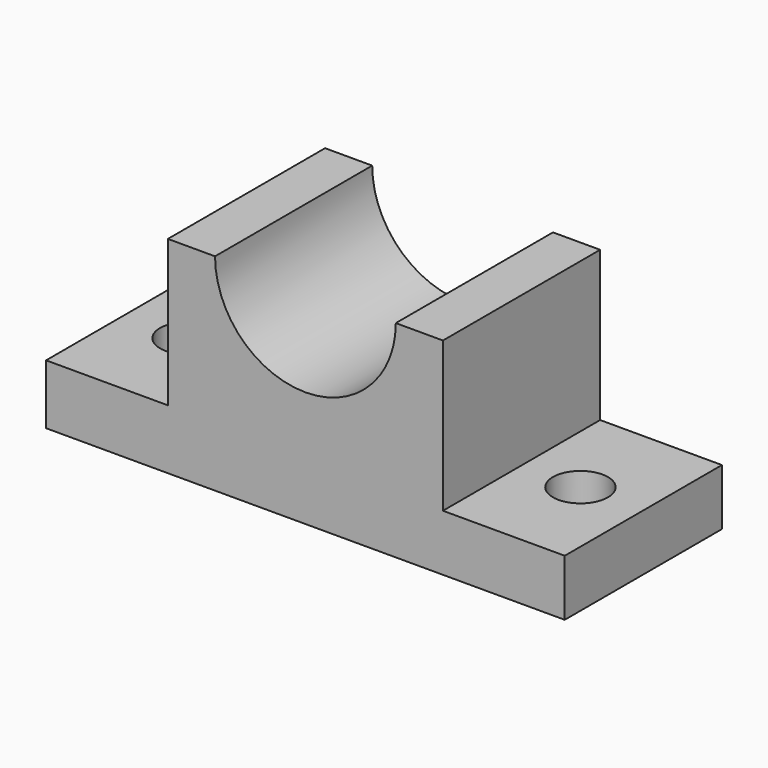
from build123d import *

# Parameters (mm, degrees)
F1_DEPTH = 50
F2_R     = 7
F3_DEPTH = 25


with BuildPart() as f1:
    # F0 (on Front) → F1 (new body)
    with BuildSketch(Plane.XZ):
        with BuildLine():
            Line((-66, 0), (0, 0))
            Line((0, 0), (66, 0))
            Line((66, 0), (66, 14.357146))
            Line((66, 14.357146), (35, 14.357146))
            Line((35, 14.357146), (35, 52.500002))
            Line((35, 52.500002), (23, 52.500002))
            ThreePointArc((23, 52.500002), (0, 29.500002), (-23, 52.500002))
            Line((-23, 52.500002), (-35, 52.500002))
            Line((-35, 52.500002), (-35, 15.214289))
            Line((-35, 15.214289), (-66, 15.214289))
            Line((-66, 15.214289), (-66, 0))
        make_face()
    extrude(amount=F1_DEPTH)

    # F2 (on Top) → F3 (cut)
    with BuildSketch(Plane.XY):
        with Locations((-50, -25)):
            Circle(F2_R)
        with Locations((50, -25)):
            Circle(F2_R)
    extrude(amount=F3_DEPTH, mode=Mode.SUBTRACT)


solid = f1.part
